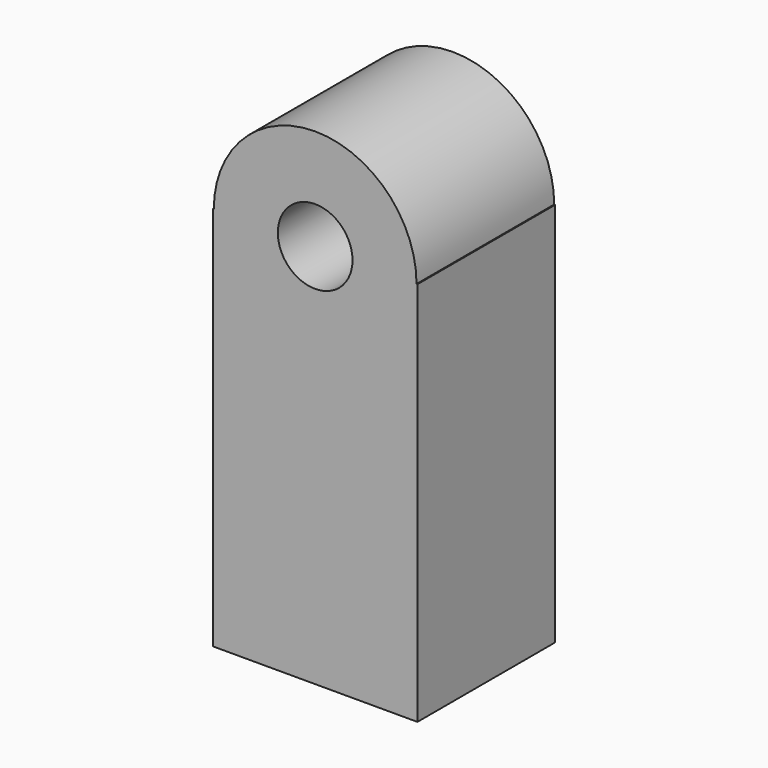
from build123d import *

# Parameters (mm, degrees)
F0_R     = 12.459608
F1_DEPTH = 57.404


with BuildPart() as f1:
    # F0 (on Front) → F1 (new body)
    with BuildSketch(Plane.XZ):
        with BuildLine():
            Line((34.117013, -64.256385), (34.117013, 64.256385))
            Line((34.117013, 64.256385), (33.811439, 64.256385))
            ThreePointArc((33.811439, 64.256385), (0, 98.067824), (-33.811439, 64.256385))
            Line((-33.811439, 64.256385), (-34.117013, 64.256385))
            Line((-34.117013, 64.256385), (-34.117013, -64.256385))
            Line((-34.117013, -64.256385), (34.117013, -64.256385))
        make_face()
        with Locations((0, 64.256385)):
            Circle(F0_R, mode=Mode.SUBTRACT)
    extrude(amount=F1_DEPTH)


solid = f1.part
